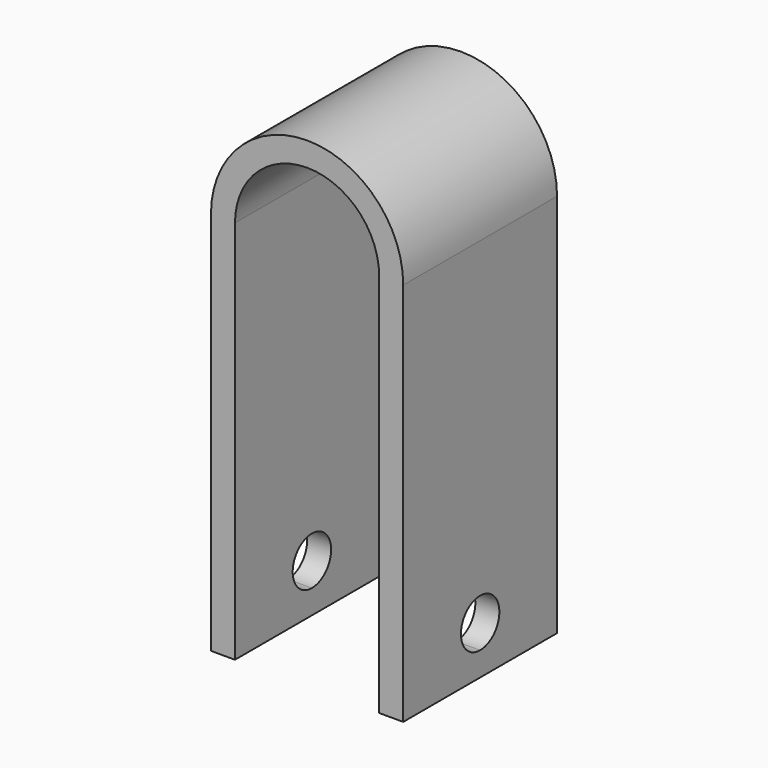
from build123d import *

# Parameters (mm, degrees)
F1_DEPTH = 25.4
F3_DEPTH = 50.8


with BuildPart() as f1:
    # F0 (on Front) → F1 (new body)
    with BuildSketch(Plane.XZ):
        with BuildLine():
            ThreePointArc((12.7, 25.4), (0, 38.1), (-12.7, 25.4))
            Line((-12.7, 25.4), (-12.7, -25.4))
            Line((-12.7, -25.4), (-9.525, -25.4))
            Line((-9.525, -25.4), (-9.525, 25.4))
            ThreePointArc((-9.525, 25.4), (0, 34.925), (9.525, 25.4))
            Line((9.525, 25.4), (9.525, -25.4))
            Line((9.525, -25.4), (12.7, -25.4))
            Line((12.7, -25.4), (12.7, 25.4))
        make_face()
    extrude(amount=F1_DEPTH)

    # F2 (on face) → F3 (cut, symmetric)
    with BuildSketch(Plane(origin=(-12.7, 0, 0), x_dir=(0, -1, 0), z_dir=(-1, 0, 0))):
        with BuildLine():
            ThreePointArc((15.875, -19.05), (10.454936, -16.804936), (12.7, -22.225))
            ThreePointArc((12.7, -22.225), (14.945064, -21.295064), (15.875, -19.05))
        make_face()
    extrude(amount=F3_DEPTH, both=True, mode=Mode.SUBTRACT)


solid = f1.part
